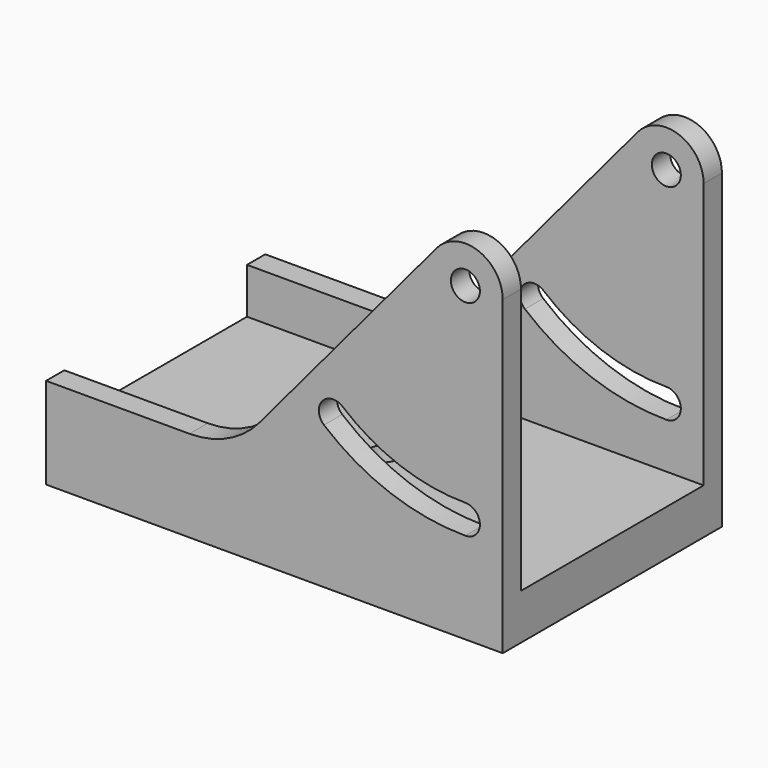
from build123d import *

# Parameters (mm, degrees)
SKETCH002_W  = 100
SKETCH002_H  = 60
SKETCH002_R  = 3.175
PAD002_DEPTH = 10
SKETCH003_R  = 3.175
PAD003_DEPTH = 60
SKETCH004_W  = 50
SKETCH004_H  = 66.35
POCKET_DEPTH = 100.001


with BuildPart() as part:
    # Sketch002 → Pad002 (new body)
    with BuildSketch(Plane.XY):
        Rectangle(SKETCH002_W, SKETCH002_H)
        Circle(SKETCH002_R, mode=Mode.SUBTRACT)
    extrude(amount=PAD002_DEPTH)

    # Sketch003 (on Face1 of Pad002) → Pad003 (join)
    with BuildSketch(Plane.XZ.offset(30)):
        with BuildLine():
            ThreePointArc((50, 68.175), (44.621015, 75.856987), (35.562587, 73.429789))
            Line((-3.275594, 27.144248), (35.562587, 73.429789))
            ThreePointArc((-18.596482, 20), (-10.144117, 21.873844), (-3.275594, 27.144248))
            Line((-50, 20), (-18.596482, 20))
            Line((-50, 10), (-50, 20))
            Line((-50, 10), (50, 10))
            Line((50, 10), (50, 68.175))
        make_face()
        with Locations((41.825, 68.175)):
            Circle(SKETCH003_R, mode=Mode.SUBTRACT)
        with BuildLine():
            ThreePointArc((10.858707, 31.270809), (25.34818, 22.905308), (41.825, 20))
            ThreePointArc((41.825, 20), (45, 23.175), (41.825, 26.35))
            ThreePointArc((14.940408, 36.135191), (27.520008, 28.872356), (41.825, 26.35))
            ThreePointArc((14.940408, 36.135191), (10.467366, 35.743851), (10.858707, 31.270809))
        make_face(mode=Mode.SUBTRACT)
    extrude(amount=-PAD003_DEPTH)

    # Sketch004 (on Face15 of Pad003) → Pocket (cut, through all)
    with BuildSketch(Plane.YZ.offset(50)):
        with Locations((0, 43.175)):
            Rectangle(SKETCH004_W, SKETCH004_H)
    extrude(amount=-POCKET_DEPTH, mode=Mode.SUBTRACT)


solid = part.part
